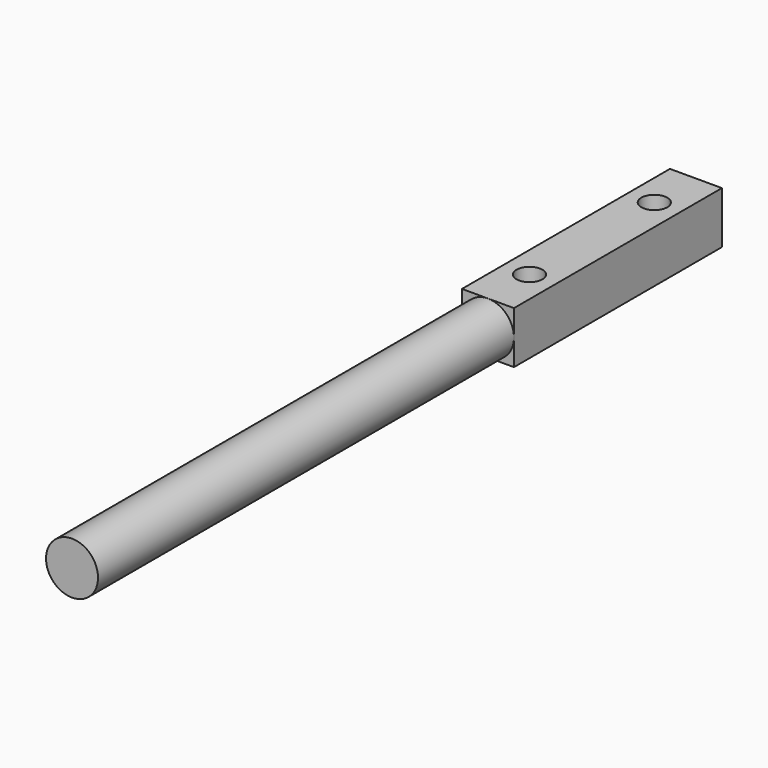
from build123d import *

# Parameters (mm, degrees)
F0_W     = 5
F0_H     = 5
F1_DEPTH = 25
F2_R     = 2.5
F3_DEPTH = 50
F4_R     = 1.25
F5_DEPTH = 25


with BuildPart() as f1:
    # F0 (on Front) → F1 (new body)
    with BuildSketch(Plane.XZ):
        Rectangle(F0_W, F0_H)
    extrude(amount=F1_DEPTH)

    # F2 (on face) → F3 (join)
    with BuildSketch(Plane.XZ.offset(25)):
        Circle(F2_R)
    extrude(amount=F3_DEPTH)

    # F4 (on face) → F5 (cut)
    with BuildSketch(Plane.XY.offset(2.5)):
        with Locations((0, -5)):
            Circle(F4_R)
        with Locations((0, -20)):
            Circle(F4_R)
    extrude(amount=-F5_DEPTH, mode=Mode.SUBTRACT)


solid = f1.part
